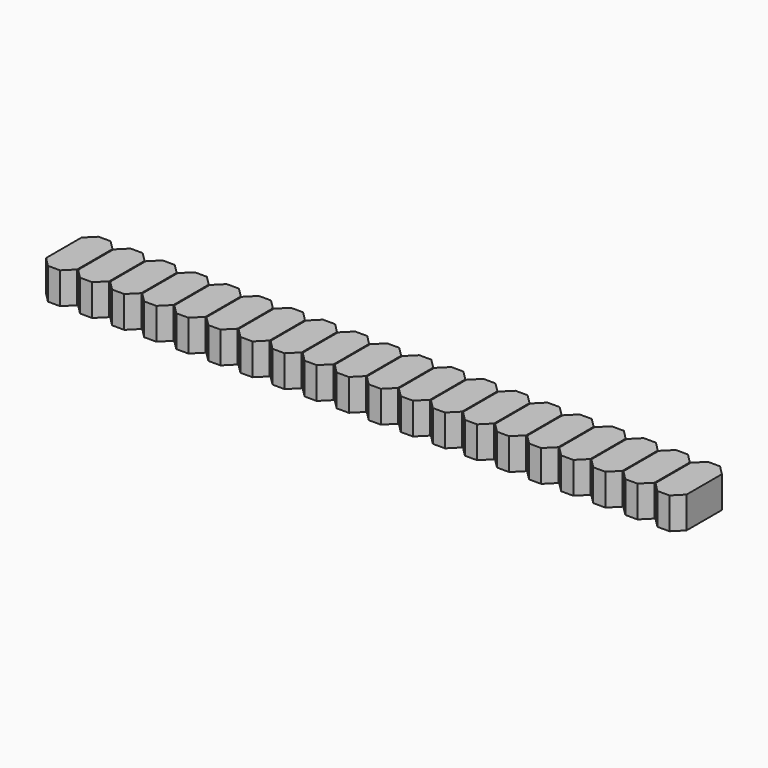
from build123d import *

# Parameters (mm, degrees)
BOX022_W         = 48.26
BOX022_H         = 3.2
BOX022_DEPTH     = 2.3
BOX021_W         = 2.46
BOX021_H         = 5
BOX021_DEPTH     = 2.5
CHAMFER002_SIZE  = 0.75
ARRAY008_X_COUNT = 20
ARRAY008_X_PITCH = 2.54


with BuildPart() as cube031:
    # Box022 → Box022 (new body)
    with BuildSketch(Plane(origin=(0, -0.33, 0.1), x_dir=(1, 0, 0), z_dir=(0, 0, 1))):
        with Locations((24.13, 1.6)):
            Rectangle(BOX022_W, BOX022_H)
    extrude(amount=BOX022_DEPTH)


with BuildPart() as body001:
    # Box021 → Box021 (new body)
    with BuildSketch(Plane(origin=(-1.23, -1.23, 0), x_dir=(1, 0, 0), z_dir=(0, 0, 1))):
        with Locations((1.23, 2.5)):
            Rectangle(BOX021_W, BOX021_H)
    extrude(amount=BOX021_DEPTH)

    # Chamfer002
    chamfer002_edges = [body001.edges().sort_by_distance(p)[0] for p in [
        (-1.23, -1.23, 1.25),
        (-1.23, 3.77, 1.25),
        (1.23, -1.23, 1.25),
        (1.23, 3.77, 1.25),
    ]]
    chamfer(chamfer002_edges, length=CHAMFER002_SIZE)

    # Array008 X: Body001 ×20


with BuildPart() as body001_1:
    add(body001.part)
    with Locations(*[(i * ARRAY008_X_PITCH, 0, 0) for i in range(1, ARRAY008_X_COUNT)]):
        add(body001.part)

    # Fusion020: union Cube031
    add(cube031.part)


solid = body001_1.part
